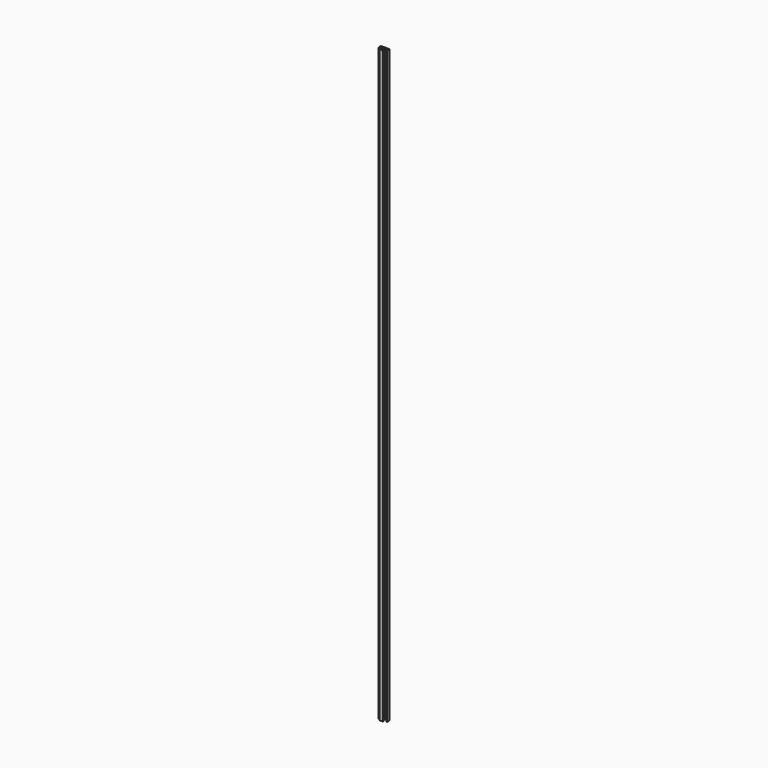
from build123d import *

# Parameters (mm, degrees)
F1_DEPTH = 2700
F2_R     = 2
F3_R     = 1


with BuildPart() as f1:
    # F0 (on Top) → F1 (new body)
    with BuildSketch(Plane.XY):
        Polygon((20, 10), (-20, 10), (-20, -5), (-17, -5), (-17, 7), (-2, 7), (-2, -9.5), (-8.5, -9.5), (-8.5, -12.5), (0, -12.5), (8.5, -12.5), (8.5, -9.5), (2, -9.5), (2, 7), (17, 7), (17, -5), (20, -5), align=None)
    extrude(amount=F1_DEPTH)

    # F2
    f2_edges = [f1.edges().sort_by_distance(p)[0] for p in [
        (-20, 10, 1350),
        (20, 10, 1350),
    ]]
    fillet(f2_edges, radius=F2_R)

    # F3
    f3_edges = [f1.edges().sort_by_distance(p)[0] for p in [
        (-17, 7, 1350),
        (-17, -5, 1350),
        (-20, -5, 1350),
        (-8.5, -12.5, 1350),
        (8.5, -12.5, 1350),
        (8.5, -9.5, 1350),
        (17, -5, 1350),
        (20, -5, 1350),
        (2, 7, 1350),
        (17, 7, 1350),
        (-2, 7, 1350),
        (-8.5, -9.5, 1350),
        (-2, -9.5, 1350),
        (2, -9.5, 1350),
    ]]
    fillet(f3_edges, radius=F3_R)


solid = f1.part
